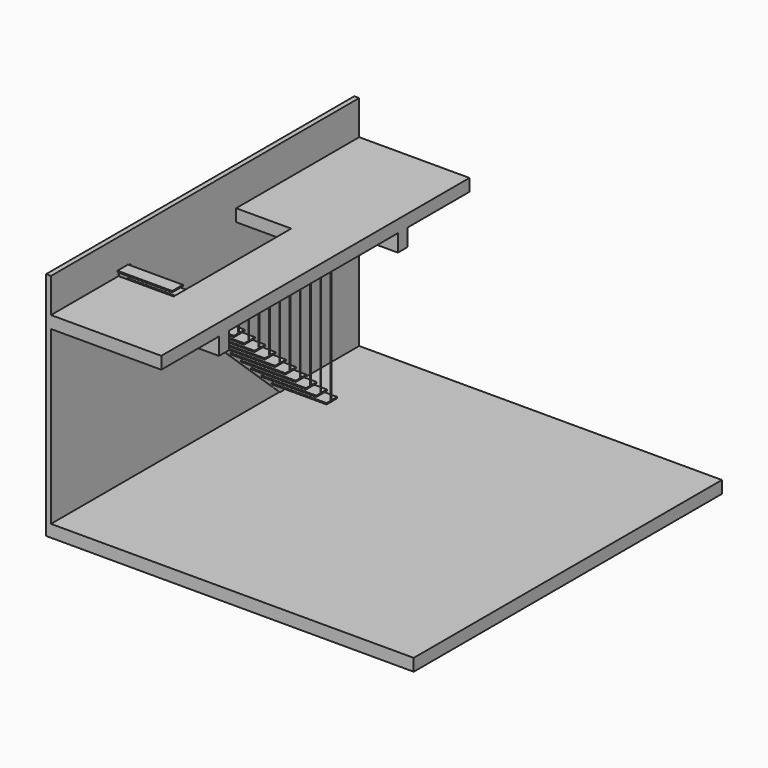
from build123d import *

# Parameters (mm, degrees)
F1_DEPTH  = 10
F2_W      = 6287.5739336014
F2_H      = 3562.2663497925
F3_DEPTH  = 80
F5_W      = 218
F5_H      = 20
F6_DEPTH  = 895.5
F8_DEPTH  = 900
F10_DEPTH = 900
F11_W     = 80
F11_H     = 3450
F12_DEPTH = 10
F13_R     = 5
F15_W     = 6287.5739336014
F15_H     = 200
F16_DEPTH = 6000


with BuildPart() as f1:
    # F0 (on Right) → F1 (new body)
    with BuildSketch(Plane.YZ):
        Polygon((-3352.2313924666, 2875.0351150951), (-3201.0313924666, 2875.0351150951), (-70, 0), (0, 0), (0, 214.6), (-3115.1313924666, 3075.0351150951), (-3352.2313924666, 3075.0351150951), align=None)
    extrude(amount=F1_DEPTH)

    # F2 (on Right) → F3 (join)
    with BuildSketch(Plane.YZ):
        with Locations((-1585.1864218712, 1781.1331748962)):
            Rectangle(F2_W, F2_H)
    extrude(amount=-F3_DEPTH)

    # F5 (on face) → F6 (join)
    with BuildSketch(Plane.YZ.offset(10)):
        with Locations((-130.0732876712, 194.6)):
            Rectangle(F5_W, F5_H)
        with Locations((-339.9267960275, 387.2956743397)):
            Rectangle(F5_W, F5_H)
        with Locations((-549.7803043837, 579.9913486793)):
            Rectangle(F5_W, F5_H)
        with Locations((-759.6338127399, 772.687023019)):
            Rectangle(F5_W, F5_H)
        with Locations((-969.4873210961, 965.3826973587)):
            Rectangle(F5_W, F5_H)
        with Locations((-1179.3408294523, 1158.0783716984)):
            Rectangle(F5_W, F5_H)
        with Locations((-1389.1943378086, 1350.774046038)):
            Rectangle(F5_W, F5_H)
        with Locations((-1599.0478461648, 1543.4697203777)):
            Rectangle(F5_W, F5_H)
        with Locations((-1808.901354521, 1736.1653947174)):
            Rectangle(F5_W, F5_H)
        with Locations((-2018.7548628772, 1928.8610690571)):
            Rectangle(F5_W, F5_H)
        with Locations((-2228.6083712334, 2121.5567433967)):
            Rectangle(F5_W, F5_H)
        with Locations((-2438.4618795897, 2314.2524177364)):
            Rectangle(F5_W, F5_H)
        with Locations((-2648.3153879459, 2506.9480920761)):
            Rectangle(F5_W, F5_H)
        with Locations((-2858.1688963021, 2699.6437664158)):
            Rectangle(F5_W, F5_H)
        with Locations((-3068.0224046583, 2892.3394407554)):
            Rectangle(F5_W, F5_H)
        with Locations((-3277.8759130145, 3085.0351150951)):
            Rectangle(F5_W, F5_H)
    extrude(amount=F6_DEPTH)

    # F7 (on face) → F8 (join)
    with BuildSketch(Plane.YZ):
        Polygon((-3352.2313924666, 3000), (-4728.9733886719, 3000), (-4728.9733886719, 2800), (-3552.2313924666, 2800), (-3552.2313924666, 2520), (-3352.2313924666, 2520), align=None)
        Polygon((1558.6005449295, 3000), (-952.2313924666, 3000), (-952.2313924666, 2800), (97.7686075334, 2800), (97.7686075334, 2520), (297.7686075334, 2520), (297.7686075334, 2800), (1558.6005449295, 2800), align=None)
    extrude(amount=F8_DEPTH)

    # F9 (on face) → F10 (join)
    with BuildSketch(Plane.YZ.offset(900)):
        Polygon((1558.6005449295, 3000), (-4728.9733886719, 3000), (-4728.9733886719, 2800), (-3552.2313924666, 2800), (-3552.2313924666, 2520), (-3352.2313924666, 2520), (-3352.2313924666, 2800), (97.7686075334, 2800), (97.7686075334, 2520), (297.7686075334, 2520), (297.7686075334, 2800), (1558.6005449295, 2800), align=None)
    extrude(amount=F10_DEPTH)

    # F11 (on face) → F12 (join)
    with BuildSketch(Plane(origin=(0, 0, 2800), x_dir=(1, 0, 0), z_dir=(0, 0, -1))):
        with Locations((920, 1627.2313924666)):
            Rectangle(F11_W, F11_H)
    extrude(amount=F12_DEPTH)

    # F13 (on face) → F14 (join, up to the next surface of F1)
    with BuildSketch(Plane(origin=(0, 0, 2790), x_dir=(1, 0, 0), z_dir=(0, 0, -1))):
        with Locations((892.75, 2858.1688963021)):
            Circle(F13_R)
        with Locations((892.75, 2648.3153879459)):
            Circle(F13_R)
        with Locations((892.75, 2438.4618795897)):
            Circle(F13_R)
        with Locations((892.75, 2228.6083712334)):
            Circle(F13_R)
        with Locations((892.75, 2018.7548628772)):
            Circle(F13_R)
        with Locations((892.75, 1808.901354521)):
            Circle(F13_R)
        with Locations((892.75, 1599.0478461648)):
            Circle(F13_R)
        with Locations((892.75, 1389.1943378086)):
            Circle(F13_R)
        with Locations((892.75, 1179.3408294523)):
            Circle(F13_R)
        with Locations((892.75, 969.4873210961)):
            Circle(F13_R)
        with Locations((892.75, 759.6338127399)):
            Circle(F13_R)
        with Locations((892.75, 549.7803043837)):
            Circle(F13_R)
        with Locations((892.75, 339.9267960275)):
            Circle(F13_R)
        with Locations((892.75, 130.0732876712)):
            Circle(F13_R)
    extrude(until=Until.NEXT)

    # F15 (on face) → F16 (join)
    with BuildSketch(Plane(origin=(-80, 0, 0), x_dir=(0, -1, 0), z_dir=(-1, 0, 0))):
        with Locations((1585.1864218712, -100)):
            Rectangle(F15_W, F15_H)
    extrude(amount=-F16_DEPTH)


solid = f1.part
